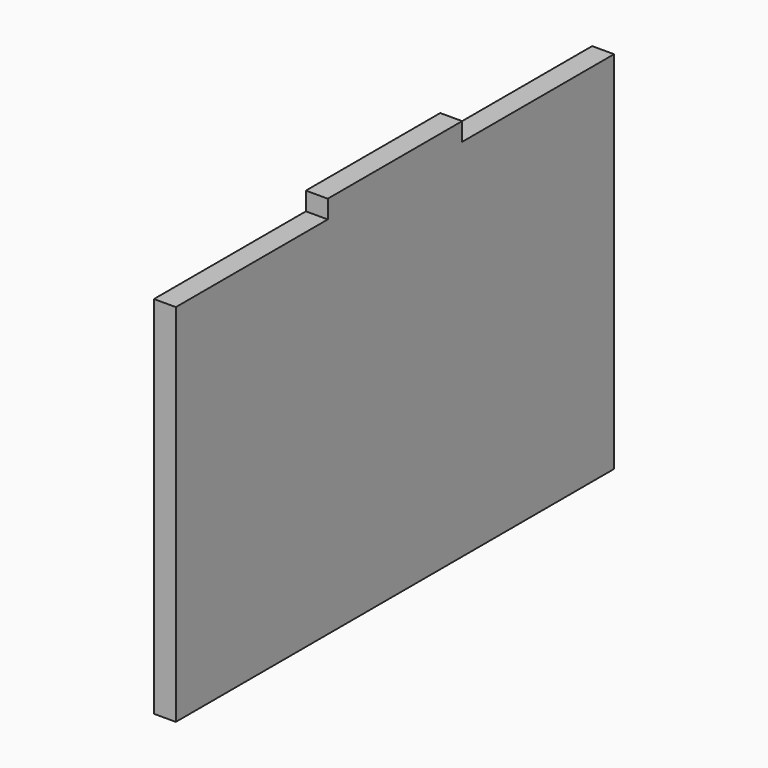
from build123d import *

# Parameters (mm, degrees)
F0_W     = 23
F0_H     = 2.5
F1_DEPTH = 3


with BuildPart() as f1:
    # F0 (on Right) → F1 (new body)
    with BuildSketch(Plane.YZ):
        Polygon((9.295454, 28.19056), (-16.704546, 28.19056), (-16.704546, -21.80944), (58.295454, -21.80944), (58.295454, 28.19056), (32.295454, 28.19056), align=None)
        with Locations((20.795454, 29.44056)):
            Rectangle(F0_W, F0_H)
    extrude(amount=F1_DEPTH)


solid = f1.part
